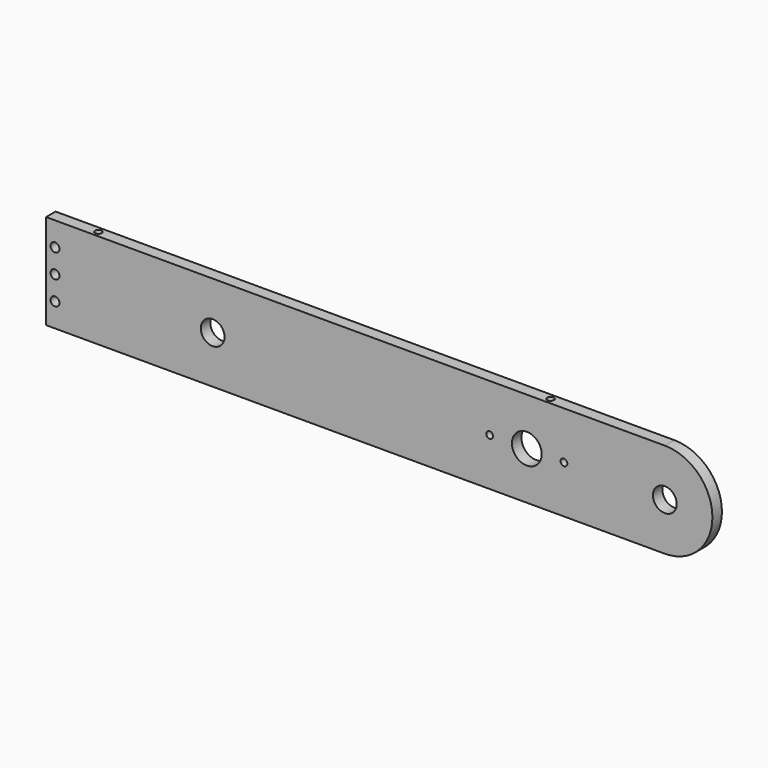
from build123d import *

# Parameters (mm, degrees)
F0_R      = 6.35
F0_R_2    = 1.7907
F0_R_3    = 7.9375
F1_DEPTH  = 6.35
F2_D      = 4.7625
F2_DEPTH  = 12.7
F2_TIP    = 1.4307993491
F3_D      = 4.7625
F3_DEPTH  = 12.7
F3_TIP    = 1.4307993491
F4_D      = 4.7625
F4_DEPTH  = 12.7
F4_TIP    = 1.4307993491
F6_D      = 3.571875
F6_DEPTH  = 12.7
F6_TIP    = 1.0730995118
F7_D      = 3.571875
F7_DEPTH  = 12.7
F7_TIP    = 1.0730995118
F9_D      = 3.571875
F9_DEPTH  = 6.35
F9_TIP    = 1.0730995118
F10_D     = 3.571875
F10_DEPTH = 6.35
F10_TIP   = 1.0730995118


with BuildPart() as f1:
    # F0 (on Front) → F1 (new body)
    with BuildSketch(Plane.XZ):
        with BuildLine():
            Line((0, 50.8), (0, 0))
            Line((0, 0), (330.2, 0))
            ThreePointArc((330.2, 0), (355.6, 25.4), (330.2, 50.8))
            Line((330.2, 50.8), (0, 50.8))
        make_face()
        with Locations((88.9, 25.4)):
            Circle(F0_R, mode=Mode.SUBTRACT)
        with Locations((236.7026, 25.4)):
            Circle(F0_R_2, mode=Mode.SUBTRACT)
        with Locations((256.54, 25.4)):
            Circle(F0_R_3, mode=Mode.SUBTRACT)
        with BuildLine():
            ThreePointArc((278.1681, 25.4), (276.3774, 23.6093), (274.5867, 25.4))
            ThreePointArc((274.5867, 25.4), (276.3774, 27.1907), (278.1681, 25.4))
        make_face(mode=Mode.SUBTRACT)
        with Locations((330.2, 25.4)):
            Circle(F0_R, mode=Mode.SUBTRACT)
    extrude(amount=F1_DEPTH)

    # F2
    with Locations(Plane(origin=(0, 0, 0), x_dir=(1, 0, 0), z_dir=(0, 1, 0))):
        with Locations((4.7625, -25.4)):
            Hole(F2_D / 2, depth=F2_DEPTH)
            with Locations((0, 0, -(F2_DEPTH + F2_TIP / 2))):  # 118° drill point
                Cone(0, F2_D / 2, F2_TIP, mode=Mode.SUBTRACT)

    # F3
    with Locations(Plane(origin=(0, 0, 0), x_dir=(1, 0, 0), z_dir=(0, 1, 0))):
        with Locations((4.7625, -12.7)):
            Hole(F3_D / 2, depth=F3_DEPTH)
            with Locations((0, 0, -(F3_DEPTH + F3_TIP / 2))):  # 118° drill point
                Cone(0, F3_D / 2, F3_TIP, mode=Mode.SUBTRACT)

    # F4
    with Locations(Plane(origin=(0, 0, 0), x_dir=(1, 0, 0), z_dir=(0, 1, 0))):
        with Locations((4.7625, -38.1)):
            Hole(F4_D / 2, depth=F4_DEPTH)
            with Locations((0, 0, -(F4_DEPTH + F4_TIP / 2))):  # 118° drill point
                Cone(0, F4_D / 2, F4_TIP, mode=Mode.SUBTRACT)

    # F6
    with Locations(Plane(origin=(0, 0, 0), x_dir=(1, 0, 0), z_dir=(0, 0, -1))):
        with Locations((266.7, 3.175)):
            Hole(F6_D / 2, depth=F6_DEPTH)
            with Locations((0, 0, -(F6_DEPTH + F6_TIP / 2))):  # 118° drill point
                Cone(0, F6_D / 2, F6_TIP, mode=Mode.SUBTRACT)

    # F7
    with Locations(Plane(origin=(0, 0, 0), x_dir=(1, 0, 0), z_dir=(0, 0, -1))):
        with Locations((25.4, 3.175)):
            Hole(F7_D / 2, depth=F7_DEPTH)
            with Locations((0, 0, -(F7_DEPTH + F7_TIP / 2))):  # 118° drill point
                Cone(0, F7_D / 2, F7_TIP, mode=Mode.SUBTRACT)

    # F9
    with Locations(Plane.XY.offset(50.8)):
        with Locations((266.7, -3.175)):
            Hole(F9_D / 2, depth=F9_DEPTH)
            with Locations((0, 0, -(F9_DEPTH + F9_TIP / 2))):  # 118° drill point
                Cone(0, F9_D / 2, F9_TIP, mode=Mode.SUBTRACT)

    # F10
    with Locations(Plane.XY.offset(50.8)):
        with Locations((25.4, -3.175)):
            Hole(F10_D / 2, depth=F10_DEPTH)
            with Locations((0, 0, -(F10_DEPTH + F10_TIP / 2))):  # 118° drill point
                Cone(0, F10_D / 2, F10_TIP, mode=Mode.SUBTRACT)


solid = f1.part
